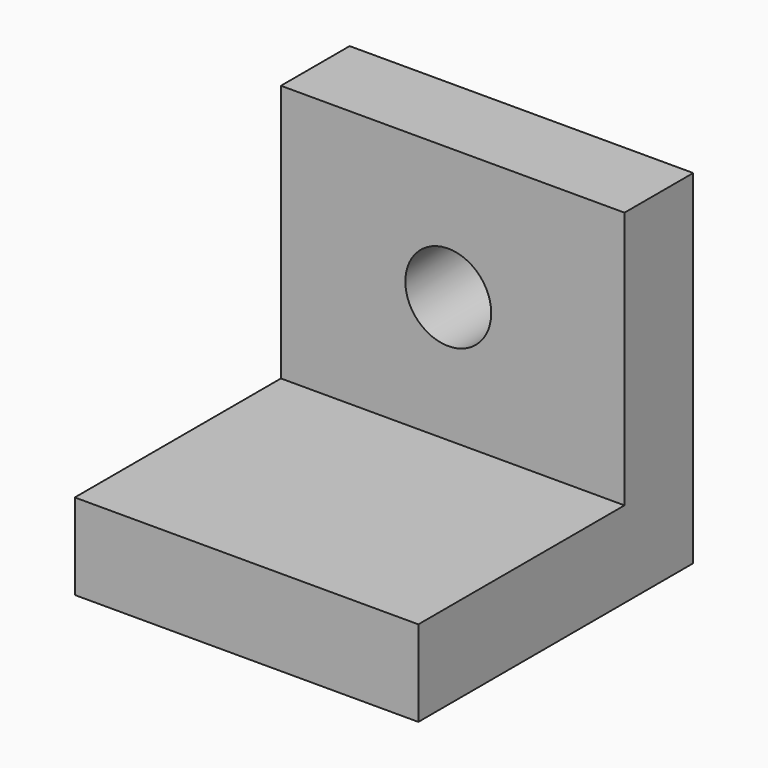
from build123d import *

# Parameters (mm, degrees)
F0_W     = 50.8
F0_H     = 50.8
F1_DEPTH = 12.7
F2_W     = 50.8
F2_H     = 12.7
F3_DEPTH = 38.1
F4_R     = 6.35
F5_DEPTH = 25.4


with BuildPart() as f1:
    # F0 (on Top) → F1 (new body)
    with BuildSketch(Plane.XY):
        with Locations((-11.33475, 28.386369)):
            Rectangle(F0_W, F0_H)
    extrude(amount=F1_DEPTH)

    # F2 (on face) → F3 (join)
    with BuildSketch(Plane.XY.offset(12.7)):
        with Locations((-11.33475, 47.436369)):
            Rectangle(F2_W, F2_H)
    extrude(amount=F3_DEPTH)

    # F4 (on face) → F5 (cut)
    with BuildSketch(Plane.XZ.offset(-41.086369)):
        with Locations((-11.992672, 31.302717)):
            Circle(F4_R)
    extrude(amount=-F5_DEPTH, mode=Mode.SUBTRACT)


solid = f1.part
